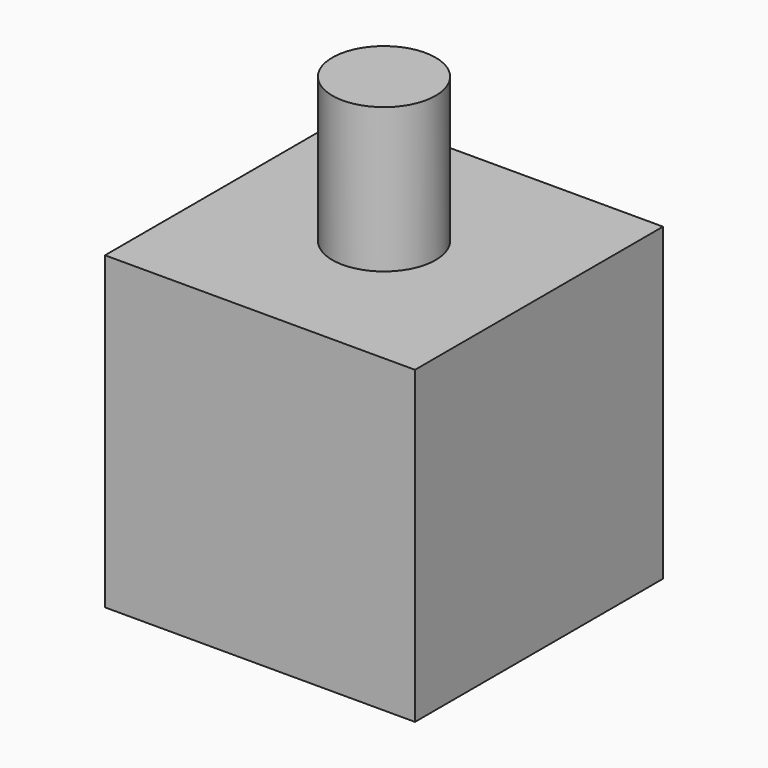
from build123d import *

# Parameters (mm, degrees)
F0_W     = 15
F0_H     = 15
F1_DEPTH = 15
F2_R     = 2.5
F3_DEPTH = 7
F4_W     = 12
F4_H     = 12
F5_DEPTH = 13
F6_R     = 3
F7_DEPTH = 5


with BuildPart() as f1:
    # F0 (on Top) → F1 (new body)
    with BuildSketch(Plane.XY):
        Rectangle(F0_W, F0_H)
    extrude(amount=F1_DEPTH)

    # F2 (on face) → F3 (join)
    with BuildSketch(Plane.XY.offset(15)):
        Circle(F2_R)
    extrude(amount=F3_DEPTH)

    # F4 (on face) → F5 (cut)
    with BuildSketch(Plane(origin=(0, 0, 0), x_dir=(1, 0, 0), z_dir=(0, 0, -1))):
        Rectangle(F4_W, F4_H)
    extrude(amount=-F5_DEPTH, mode=Mode.SUBTRACT)

    # F6 (on face) → F7 (join)
    with BuildSketch(Plane(origin=(0, 0, 13), x_dir=(1, 0, 0), z_dir=(0, 0, -1))):
        Circle(F6_R)
    extrude(amount=F7_DEPTH)


solid = f1.part
